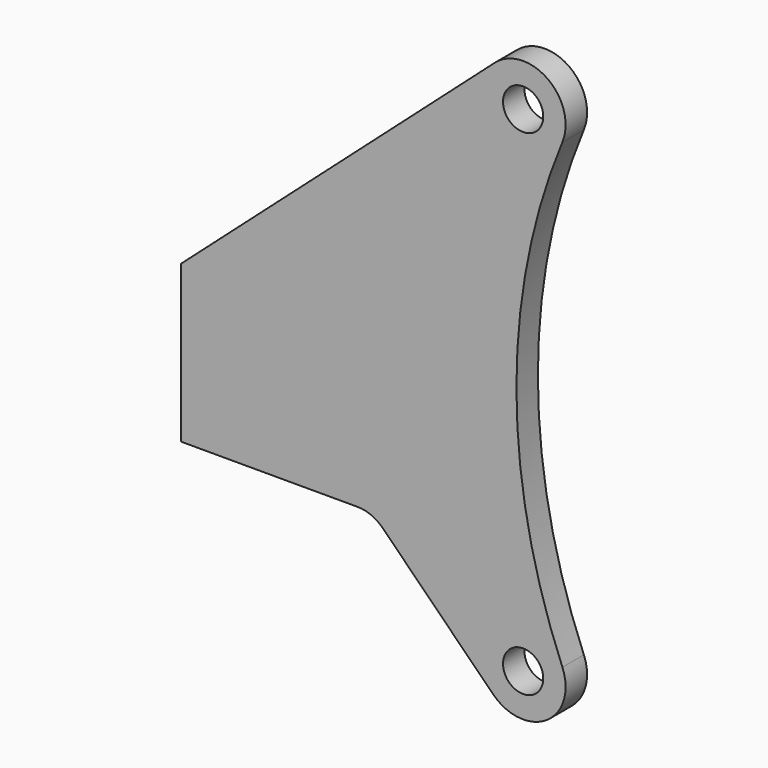
from build123d import *

# Parameters (mm, degrees)
F0_R     = 4.5
F1_DEPTH = 6


with BuildPart() as f1:
    # F0 (on Front) → F1 (new body)
    with BuildSketch(Plane.XZ):
        with BuildLine():
            ThreePointArc((-140.218107, -62.01527), (-128.222675, -63.196717), (-124.723737, -51.662263))
            ThreePointArc((-124.723737, -51.662263), (-135, 0), (-124.723737, 51.662263))
            ThreePointArc((-124.723737, 51.662263), (-127.993204, 63.038471), (-139.812549, 62.3977))
            Line((-139.812549, 62.3977), (-210, 0))
            Line((-210, 0), (-210, -35))
            Line((-210, -35), (-170.547086, -35))
            ThreePointArc((-170.547086, -35), (-167.485618, -35.608964), (-164.890232, -37.343146))
            Line((-164.890232, -37.343146), (-140.218107, -62.01527))
        make_face()
        with Locations((-133.500592, -55.297756)):
            Circle(F0_R, mode=Mode.SUBTRACT)
        with Locations((-133.500592, 55.297756)):
            Circle(F0_R, mode=Mode.SUBTRACT)
    extrude(amount=F1_DEPTH)


solid = f1.part
